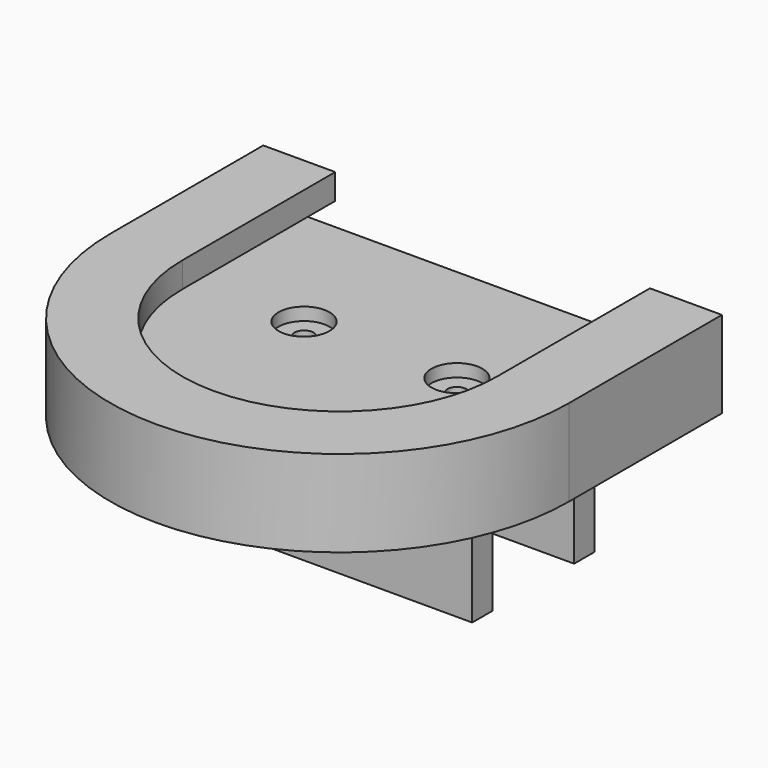
from build123d import *

# Parameters (mm, degrees)
F1_DEPTH  = 3.6
F3_DEPTH  = 4
F5_DEPTH  = 6
F6_W      = 12
F6_H      = 24
F6_W_2    = 24
F7_DEPTH  = 4
F8_W      = 48
F8_H      = 4
F9_DEPTH  = 15
F10_R     = 1.5
F11_DEPTH = 10
F12_R     = 4
F12_R_2   = 1.5
F13_DEPTH = 2
F14_R     = 3
F15_R     = 1.5
F16_DEPTH = 34.001


with BuildPart() as f1:
    # F0 (on Top) → F1 (new body)
    with BuildSketch(Plane.XY):
        with BuildLine():
            ThreePointArc((30, 0), (0, -30), (-30, 0))
            Line((-30, 0), (-30, 30))
            Line((-30, 30), (-36, 30))
            Line((-36, 30), (-36, 0))
            ThreePointArc((-36, 0), (0, -36), (36, 0))
            Line((36, 0), (36, 30))
            Line((36, 30), (30, 30))
            Line((30, 30), (30, 0))
        make_face()
    extrude(amount=F1_DEPTH)

    # F2 (on face) → F3 (join)
    with BuildSketch(Plane.XY.offset(3.6)):
        with BuildLine():
            Line((-30, 30), (-30, 0))
            ThreePointArc((-30, 0), (0, -30), (30, 0))
            Line((30, 0), (30, 30))
            Line((30, 30), (24.7, 30))
            Line((24.7, 30), (24.7, 0))
            ThreePointArc((24.7, 0), (0, -24.7), (-24.7, 0))
            Line((-24.7, 0), (-24.7, 30))
            Line((-24.7, 30), (-30, 30))
        make_face()
        with BuildLine():
            ThreePointArc((30, 0), (0, -30), (-30, 0))
            Line((-30, 0), (-30, 30))
            Line((-30, 30), (-36, 30))
            Line((-36, 30), (-36, 0))
            ThreePointArc((-36, 0), (0, -36), (36, 0))
            Line((36, 0), (36, 30))
            Line((36, 30), (30, 30))
            Line((30, 30), (30, 0))
        make_face()
    extrude(amount=F3_DEPTH)

    # F4 (on face) → F5 (join)
    with BuildSketch(Plane(origin=(0, 0, 0), x_dir=(1, 0, 0), z_dir=(0, 0, -1))):
        with BuildLine():
            ThreePointArc((36, 0), (0, 36), (-36, 0))
            Line((-36, 0), (-36, -30))
            Line((-36, -30), (-30, -30))
            Line((-30, -30), (30, -30))
            Line((30, -30), (36, -30))
            Line((36, -30), (36, 0))
        make_face()
    extrude(amount=F5_DEPTH)


with BuildPart() as f7:
    # F6 (on face) → F7 (new body)
    with BuildSketch(Plane(origin=(0, 0, -6), x_dir=(1, 0, 0), z_dir=(0, 0, -1))):
        with Locations((18, -8)):
            Rectangle(F6_W, F6_H)
        with Locations((-18, -8)):
            Rectangle(F6_W, F6_H)
        with Locations((0, -8)):
            Rectangle(F6_W_2, F6_H)
    extrude(amount=F7_DEPTH)

    # F8 (on face) → F9 (join)
    with BuildSketch(Plane(origin=(0, 0, -10), x_dir=(1, 0, 0), z_dir=(0, 0, -1))):
        with Locations((0, 2)):
            Rectangle(F8_W, F8_H)
        with Locations((0, -18)):
            Rectangle(F8_W, F8_H)
    extrude(amount=F9_DEPTH)


with BuildPart() as f11_tool:
    # F10 (on face) → F11 (new body)
    with BuildSketch(Plane(origin=(0, 0, -10), x_dir=(1, 0, 0), z_dir=(0, 0, -1))):
        with Locations((12, -8)):
            Circle(F10_R)
        with Locations((-12, -8)):
            Circle(F10_R)
    extrude(amount=-F11_DEPTH)


with BuildPart() as f1_1:
    add(f1.part)

    # F11: cut by f11_tool
    add(f11_tool.part, mode=Mode.SUBTRACT)

    # F12 (on face) → F13 (cut)
    with BuildSketch(Plane.XY):
        with Locations((-12, 8)):
            Circle(F12_R)
        with Locations((-12, 8)):
            Circle(F12_R_2, mode=Mode.SUBTRACT)
        with Locations((12, 8)):
            Circle(F12_R)
        with Locations((12, 8)):
            Circle(F12_R_2, mode=Mode.SUBTRACT)
    extrude(amount=-F13_DEPTH, mode=Mode.SUBTRACT)


with BuildPart() as f7_1:
    add(f7.part)

    # F11: cut by f11_tool
    add(f11_tool.part, mode=Mode.SUBTRACT)

    # F14
    f14_edges = [f7_1.edges().sort_by_distance(p)[0] for p in [
        (0, 0, -10),
        (0, 16, -10),
        (0, -4, -6),
        (0, 20, -6),
    ]]
    fillet(f14_edges, radius=F14_R)

    # F15 (on face) → F16 (cut, through all)
    with BuildSketch(Plane.XZ.offset(4)):
        with Locations((-12, -17)):
            Circle(F15_R)
        with Locations((12, -17)):
            Circle(F15_R)
    extrude(amount=-F16_DEPTH, mode=Mode.SUBTRACT)


solid = Compound([f1_1.part, f7_1.part])
